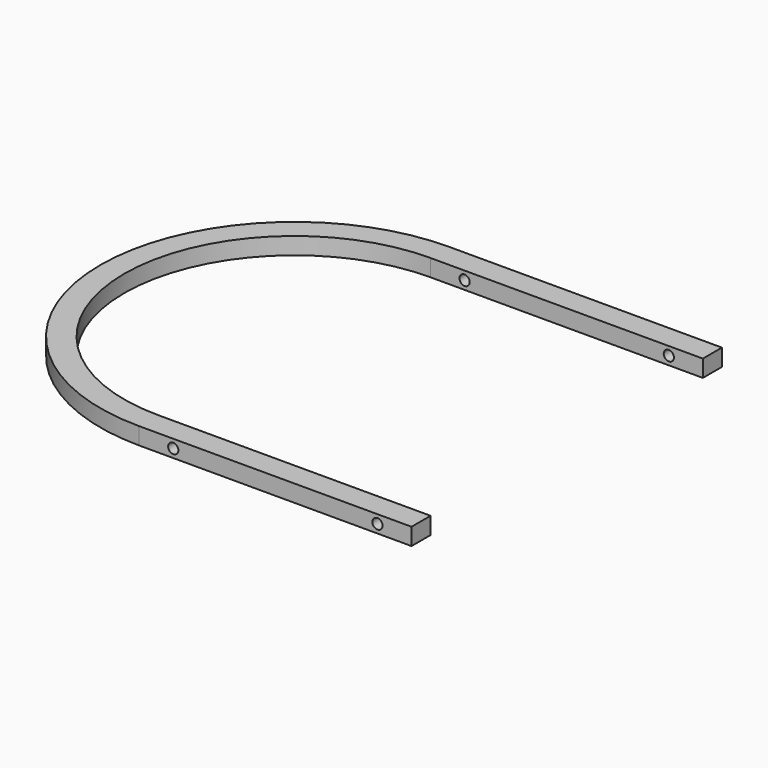
from build123d import *

# Parameters (mm, degrees)
F1_DEPTH = 5
F2_R     = 1.5
F3_DEPTH = 150


with BuildPart() as f1:
    # F0 (on Top) → F1 (new body)
    with BuildSketch(Plane.XY):
        with BuildLine():
            Line((40, -57), (40, -50))
            Line((40, -50), (-40, -50))
            ThreePointArc((-40, -50), (-90, 0), (-40, 50))
            Line((-40, 50), (40, 50))
            Line((40, 50), (40, 57))
            Line((40, 57), (-40, 57))
            ThreePointArc((-40, 57), (-97, 0), (-40, -57))
            Line((-40, -57), (40, -57))
        make_face()
    extrude(amount=-F1_DEPTH)

    # F2 (on face) → F3 (cut)
    with BuildSketch(Plane.XZ.offset(57)):
        with Locations((-30, -2.5)):
            Circle(F2_R)
        with Locations((30, -2.5)):
            Circle(F2_R)
    extrude(amount=-F3_DEPTH, mode=Mode.SUBTRACT)


solid = f1.part
